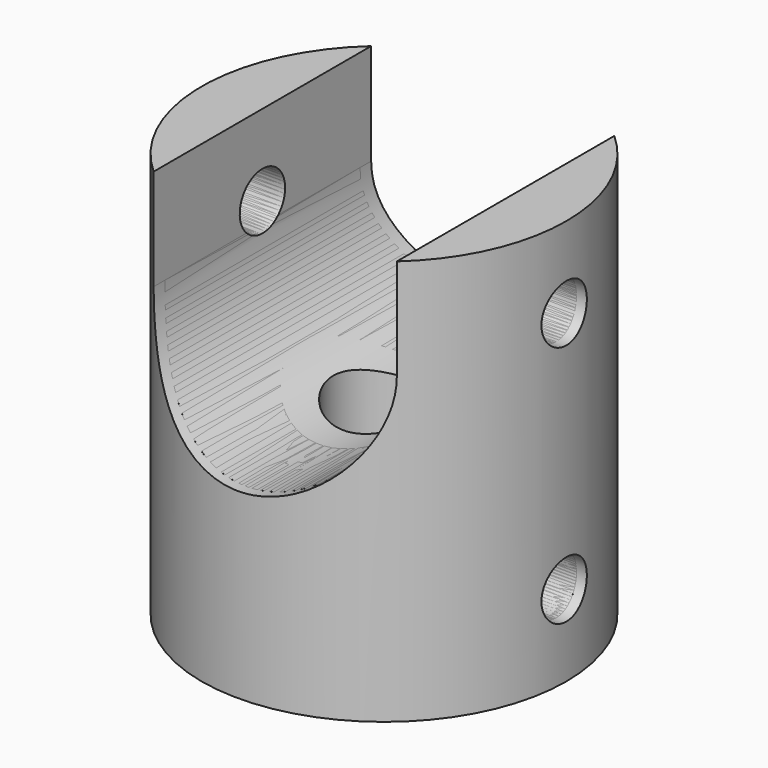
from build123d import *

# Parameters (mm, degrees)
CYLINDER005_R           = 1.4
CYLINDER005_DEPTH       = 18
CYLINDER005_ROLL_ANGLE  = 90
CYLINDER012_R           = 1.4
CYLINDER012_DEPTH       = 18
CYLINDER012_PITCH_ANGLE = 90
CYLINDER004_R           = 5.7
CYLINDER004_DEPTH       = 6
CHAMFER_SIZE            = 1
CYLINDER007_R           = 2.5
CYLINDER007_DEPTH       = 12
CYLINDER008_R           = 1.4
CYLINDER008_DEPTH       = 20
CYLINDER008_PITCH_ANGLE = 90
CYLINDER001_R           = 6
CYLINDER001_DEPTH       = 20
CYLINDER001_ROLL_ANGLE  = 90
BOX_W                   = 12
BOX_H                   = 20
BOX_DEPTH               = 10
CYLINDER003_R           = 1.4
CYLINDER003_DEPTH       = 22
CYLINDER003_PITCH_ANGLE = 90
CYLINDER002_R           = 8.5
CYLINDER002_DEPTH       = 20
CYLINDER016_R           = 4
CYLINDER016_DEPTH       = 12
CYLINDER014_R           = 1.4
CYLINDER014_DEPTH       = 20
CYLINDER014_PITCH_ANGLE = 90
CYLINDER013_R           = 6
CYLINDER013_DEPTH       = 20
CYLINDER013_ROLL_ANGLE  = 90
BOX001_W                = 12
BOX001_H                = 20
BOX001_DEPTH            = 10
CYLINDER015_R           = 1.4
CYLINDER015_DEPTH       = 22
CYLINDER015_PITCH_ANGLE = 90
CYLINDER_R              = 9
CYLINDER_DEPTH          = 20


with BuildPart() as cylinder005:
    # Cylinder005 → Cylinder005 (new body)
    with BuildSketch(Plane.XY):
        Circle(CYLINDER005_R)
    extrude(amount=CYLINDER005_DEPTH)


with BuildPart() as cylinder005_1:
    # Cylinder005 roll: moved
    add(cylinder005.part.rotate(Axis((0, 0, 0), (1, 0, 0)), CYLINDER005_ROLL_ANGLE))


with BuildPart() as cylinder005_2:
    # Cylinder005 placement: moved
    add(cylinder005_1.part.moved(Location((0, 9, 3))))


with BuildPart() as joiner_pins:
    # Cylinder012 → Cylinder012 (new body)
    with BuildSketch(Plane.XY):
        Circle(CYLINDER012_R)
    extrude(amount=CYLINDER012_DEPTH)


with BuildPart() as joiner_pins_1:
    # Cylinder012 pitch: moved
    add(joiner_pins.part.rotate(Axis((0, 0, 0), (0, 1, 0)), CYLINDER012_PITCH_ANGLE))


with BuildPart() as joiner_pins_2:
    # Cylinder012 placement: moved
    add(joiner_pins_1.part.moved(Location((-9, 0, 3))))

    # Fusion002: union Cylinder005
    add(cylinder005_2.part)


with BuildPart() as joiner:
    # Cylinder004 → Cylinder004 (new body)
    with BuildSketch(Plane.XY):
        Circle(CYLINDER004_R)
    extrude(amount=CYLINDER004_DEPTH)

    # Cut009: cut joiner pins
    add(joiner_pins_2.part, mode=Mode.SUBTRACT)

    # Chamfer
    chamfer_edges = [joiner.edges().sort_by_distance(p)[0] for p in [
        (-5.7, 0, 0),
        (-5.7, 0, 6),
    ]]
    chamfer(chamfer_edges, length=CHAMFER_SIZE)


with BuildPart() as f_5mm:
    # Cylinder007 → Cylinder007 (new body)
    with BuildSketch(Plane.XY.offset(-0.5)):
        Circle(CYLINDER007_R)
    extrude(amount=CYLINDER007_DEPTH)


with BuildPart() as cylinder008:
    # Cylinder008 → Cylinder008 (new body)
    with BuildSketch(Plane.XY):
        Circle(CYLINDER008_R)
    extrude(amount=CYLINDER008_DEPTH)


with BuildPart() as cylinder008_1:
    # Cylinder008 pitch: moved
    add(cylinder008.part.rotate(Axis((0, 0, 0), (0, 1, 0)), CYLINDER008_PITCH_ANGLE))


with BuildPart() as cylinder008_2:
    # Cylinder008 placement: moved
    add(cylinder008_1.part.moved(Location((-10, 0, 4))))


with BuildPart() as cylinder001:
    # Cylinder001 → Cylinder001 (new body)
    with BuildSketch(Plane.XY):
        Circle(CYLINDER001_R)
    extrude(amount=CYLINDER001_DEPTH)


with BuildPart() as cylinder001_1:
    # Cylinder001 roll: moved
    add(cylinder001.part.rotate(Axis((0, 0, 0), (1, 0, 0)), CYLINDER001_ROLL_ANGLE))


with BuildPart() as cylinder001_2:
    # Cylinder001 placement: moved
    add(cylinder001_1.part.moved(Location((0, 10, 15))))


with BuildPart() as box:
    # Box → Box (new body)
    with BuildSketch(Plane(origin=(-6, -10, 15), x_dir=(1, 0, 0), z_dir=(0, 0, 1))):
        with Locations((6, 10)):
            Rectangle(BOX_W, BOX_H)
    extrude(amount=BOX_DEPTH)


with BuildPart() as cutouts:
    # Cylinder003 → Cylinder003 (new body)
    with BuildSketch(Plane.XY):
        Circle(CYLINDER003_R)
    extrude(amount=CYLINDER003_DEPTH)


with BuildPart() as cutouts_1:
    # Cylinder003 pitch: moved
    add(cutouts.part.rotate(Axis((0, 0, 0), (0, 1, 0)), CYLINDER003_PITCH_ANGLE))


with BuildPart() as cutouts_2:
    # Cylinder003 placement: moved
    add(cutouts_1.part.moved(Location((-11, 0, 16))))

    # Fusion: union Cylinder008, Cylinder001, Box
    add(cylinder008_2.part)
    add(cylinder001_2.part)
    add(box.part)


with BuildPart() as cut011:
    # Cylinder002 → Cylinder002 (new body)
    with BuildSketch(Plane.XY):
        Circle(CYLINDER002_R)
    extrude(amount=CYLINDER002_DEPTH)

    # Cut: cut cutouts
    add(cutouts_2.part, mode=Mode.SUBTRACT)

    # Cut011: cut 5mm
    add(f_5mm.part, mode=Mode.SUBTRACT)


with BuildPart() as f_5mm001:
    # Cylinder016 → Cylinder016 (new body)
    with BuildSketch(Plane.XY.offset(-0.5)):
        Circle(CYLINDER016_R)
    extrude(amount=CYLINDER016_DEPTH)


with BuildPart() as cylinder014:
    # Cylinder014 → Cylinder014 (new body)
    with BuildSketch(Plane.XY):
        Circle(CYLINDER014_R)
    extrude(amount=CYLINDER014_DEPTH)


with BuildPart() as cylinder014_1:
    # Cylinder014 pitch: moved
    add(cylinder014.part.rotate(Axis((0, 0, 0), (0, 1, 0)), CYLINDER014_PITCH_ANGLE))


with BuildPart() as cylinder014_2:
    # Cylinder014 placement: moved
    add(cylinder014_1.part.moved(Location((-10, 0, 4))))


with BuildPart() as cylinder013:
    # Cylinder013 → Cylinder013 (new body)
    with BuildSketch(Plane.XY):
        Circle(CYLINDER013_R)
    extrude(amount=CYLINDER013_DEPTH)


with BuildPart() as cylinder013_1:
    # Cylinder013 roll: moved
    add(cylinder013.part.rotate(Axis((0, 0, 0), (1, 0, 0)), CYLINDER013_ROLL_ANGLE))


with BuildPart() as cylinder013_2:
    # Cylinder013 placement: moved
    add(cylinder013_1.part.moved(Location((0, 10, 15))))


with BuildPart() as box001:
    # Box001 → Box001 (new body)
    with BuildSketch(Plane(origin=(-6, -10, 15), x_dir=(1, 0, 0), z_dir=(0, 0, 1))):
        with Locations((6, 10)):
            Rectangle(BOX001_W, BOX001_H)
    extrude(amount=BOX001_DEPTH)


with BuildPart() as cutouts001:
    # Cylinder015 → Cylinder015 (new body)
    with BuildSketch(Plane.XY):
        Circle(CYLINDER015_R)
    extrude(amount=CYLINDER015_DEPTH)


with BuildPart() as cutouts001_1:
    # Cylinder015 pitch: moved
    add(cutouts001.part.rotate(Axis((0, 0, 0), (0, 1, 0)), CYLINDER015_PITCH_ANGLE))


with BuildPart() as cutouts001_2:
    # Cylinder015 placement: moved
    add(cutouts001_1.part.moved(Location((-11, 0, 16))))

    # Fusion003: union Cylinder014, Cylinder013, Box001
    add(cylinder014_2.part)
    add(cylinder013_2.part)
    add(box001.part)


with BuildPart() as cut012:
    # Cylinder → Cylinder (new body)
    with BuildSketch(Plane.XY):
        Circle(CYLINDER_R)
    extrude(amount=CYLINDER_DEPTH)

    # Cut010: cut cutouts001
    add(cutouts001_2.part, mode=Mode.SUBTRACT)

    # Cut012: cut 5mm001
    add(f_5mm001.part, mode=Mode.SUBTRACT)


solid = Compound([joiner.part, cut011.part, cut012.part])
